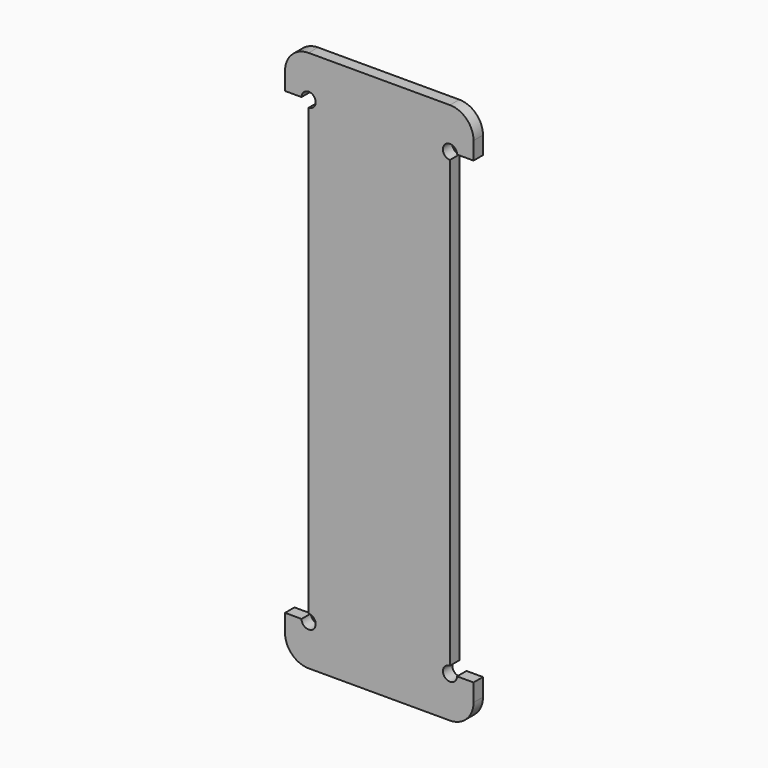
from build123d import *

# Parameters (mm, degrees)
F1_DEPTH = 5


with BuildPart() as f1:
    # F0 (on Front) → F1 (new body)
    with BuildSketch(Plane.XZ):
        with BuildLine():
            ThreePointArc((40, 105), (37.071068, 112.071068), (30, 115))
            Line((30, 115), (-30, 115))
            ThreePointArc((-30, 115), (-37.071068, 112.071068), (-40, 105))
            Line((-40, 105), (-40, 97.5))
            Line((-40, 97.5), (-33, 97.5))
            ThreePointArc((-33, 97.5), (-27.87868, 99.62132), (-30, 94.5))
            Line((-30, 94.5), (-30, -94.5))
            ThreePointArc((-30, -94.5), (-27.87868, -99.62132), (-33, -97.5))
            Line((-33, -97.5), (-40, -97.5))
            Line((-40, -97.5), (-40, -105))
            ThreePointArc((-40, -105), (-37.071068, -112.071068), (-30, -115))
            Line((-30, -115), (30, -115))
            ThreePointArc((30, -115), (37.071068, -112.071068), (40, -105))
            Line((40, -105), (40, -97.5))
            Line((40, -97.5), (33, -97.5))
            ThreePointArc((33, -97.5), (27.87868, -99.62132), (30, -94.5))
            Line((30, -94.5), (30, 94.5))
            ThreePointArc((30, 94.5), (27.87868, 99.62132), (33, 97.5))
            Line((33, 97.5), (40, 97.5))
            Line((40, 97.5), (40, 105))
        make_face()
    extrude(amount=F1_DEPTH)


solid = f1.part
